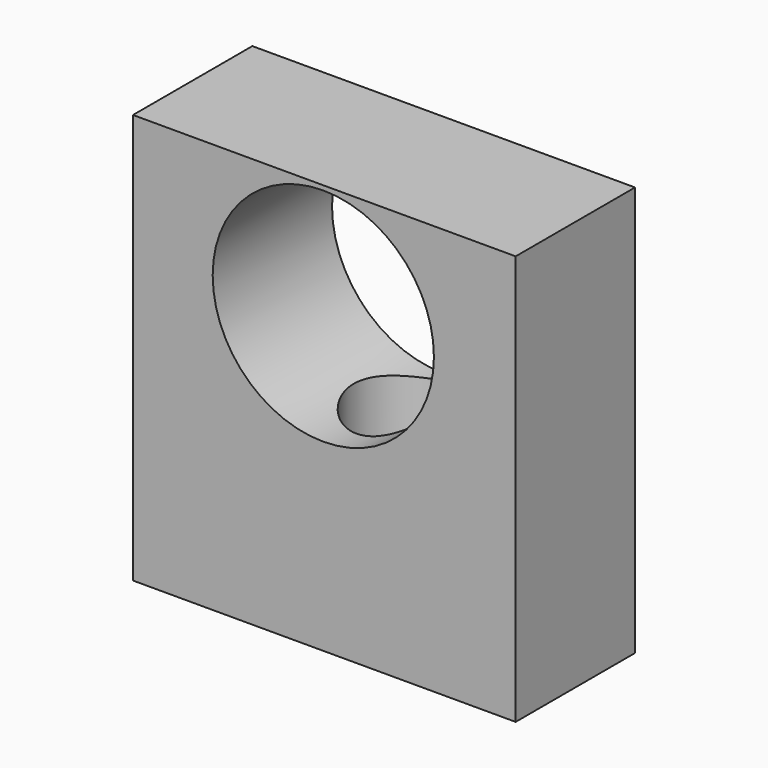
from build123d import *

# Parameters (mm, degrees)
F0_W     = 64.124673
F0_H     = 68.683535
F0_R     = 18.534885
F1_DEPTH = 25
F2_R     = 9.689952
F3_DEPTH = 40


with BuildPart() as f1:
    # F0 (on Front) → F1 (new body)
    with BuildSketch(Plane.XZ):
        with Locations((7.481202, 8.251176)):
            Rectangle(F0_W, F0_H)
        with Locations((7.309578, 23.298969)):
            Circle(F0_R, mode=Mode.SUBTRACT)
    extrude(amount=F1_DEPTH)

    # F2 (on face) → F3 (cut)
    with BuildSketch(Plane(origin=(0, 0, -26.090592), x_dir=(1, 0, 0), z_dir=(0, 0, -1))):
        with Locations((11.032507, 11.132475)):
            Circle(F2_R)
    extrude(amount=-F3_DEPTH, mode=Mode.SUBTRACT)


solid = f1.part
